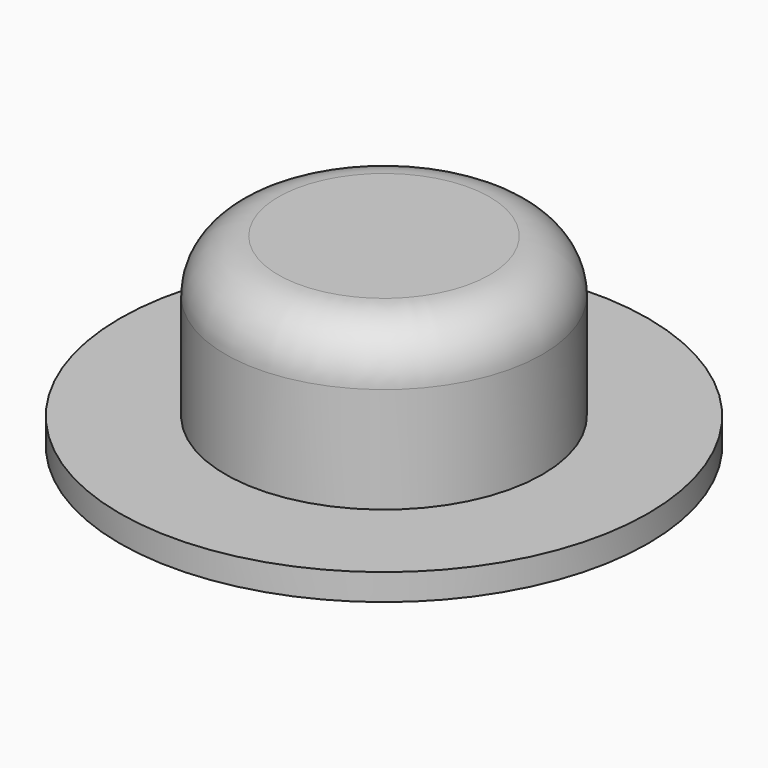
from build123d import *

# Parameters (mm, degrees)
SKETCH026_R     = 5
PAD015_DEPTH    = 0.5
SKETCH027_R     = 3
PAD016_DEPTH    = 3
FILLET003_R     = 1
SKETCH028_R     = 2.5
POCKET011_DEPTH = 1
FILLET004_R     = 0.6


with BuildPart() as part:
    # Sketch026 (on XY_Plane005 of Origin010) → Pad015 (new body)
    with BuildSketch(Plane.XY):
        Circle(SKETCH026_R)
    extrude(amount=PAD015_DEPTH)

    # Sketch027 (on Face3 of Pad015) → Pad016 (join)
    with BuildSketch(Plane.XY.offset(0.5)):
        Circle(SKETCH027_R)
    extrude(amount=PAD016_DEPTH)

    # Fillet003
    fillet003_edges = [part.edges().sort_by_distance(p)[0] for p in [
        (-3, 0, 3.5),
    ]]
    fillet(fillet003_edges, radius=FILLET003_R)

    # Sketch028 → Pocket011 (cut)
    with BuildSketch(Plane.XY):
        Circle(SKETCH028_R)
    extrude(amount=POCKET011_DEPTH, mode=Mode.SUBTRACT)

    # Fillet004
    fillet004_edges = [part.edges().sort_by_distance(p)[0] for p in [
        (-2.5, 0, 1),
    ]]
    fillet(fillet004_edges, radius=FILLET004_R)


solid = part.part
